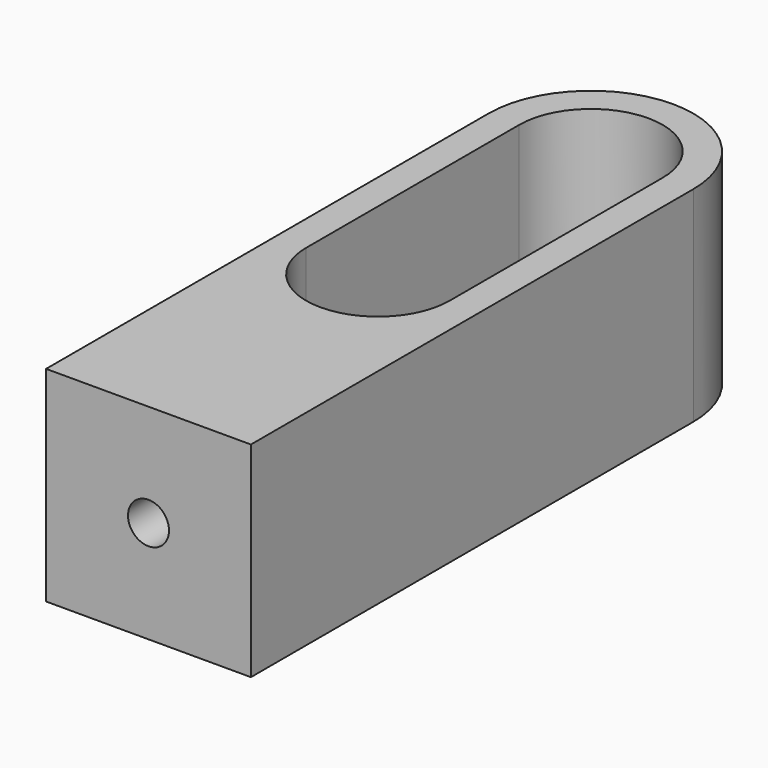
from build123d import *

# Parameters (mm, degrees)
F1_DEPTH = 15.875
F3_DEPTH = 12.7
F4_R     = 1.5875
F5_DEPTH = 17.9003632286


with BuildPart() as f1:
    # F0 (on Top) → F1 (new body)
    with BuildSketch(Plane.XY):
        with BuildLine():
            Line((0, 42.8625), (0, 0))
            Line((0, 0), (15.875, 0))
            Line((15.875, 0), (15.875, 42.8625))
            ThreePointArc((15.875, 42.8625), (7.9375, 50.8), (0, 42.8625))
        make_face()
    extrude(amount=F1_DEPTH)

    # F2 (on face) → F3 (cut)
    with BuildSketch(Plane.XY.offset(15.875)):
        with BuildLine():
            Line((2.38125, 42.8625), (2.38125, 22.225))
            ThreePointArc((2.38125, 22.225), (7.9375, 16.66875), (13.49375, 22.225))
            Line((13.49375, 22.225), (13.49375, 42.8625))
            ThreePointArc((13.49375, 42.8625), (7.9375, 48.41875), (2.38125, 42.8625))
        make_face()
    extrude(amount=-F3_DEPTH, mode=Mode.SUBTRACT)

    # F4 (on face) → F5 (cut, up to face)
    with BuildSketch(Plane.XZ):
        with Locations((7.9375, 7.9375)):
            Circle(F4_R)
    extrude(amount=-F5_DEPTH, mode=Mode.SUBTRACT)


solid = f1.part
